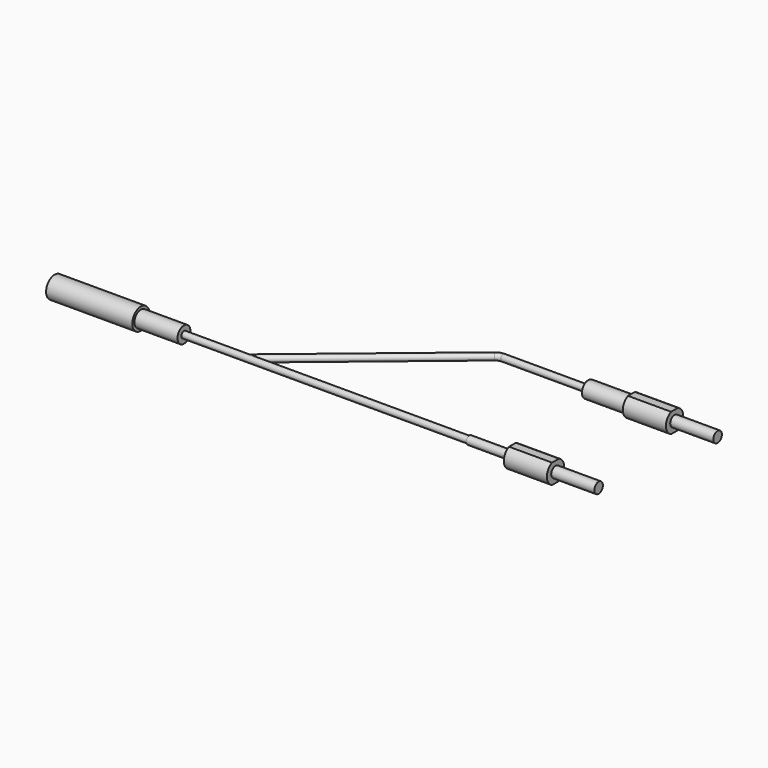
from build123d import *

# Parameters (mm, degrees)
F3_R     = 1.905
F7_W     = 78.89875
F7_H     = 0.5301288674
F8_DEPTH = 171.451


with BuildPart() as f1:
    # F0 (on Top) → F1 (revolve)
    with BuildSketch(Plane.XY):
        Polygon((-46.0375, 0), (-160.3375, 0), (-160.3375, -6.35), (-109.5375, -6.35), (-109.5375, -4.7625), (-84.1375, -4.7625), (-84.1375, -1.905), (84.1375, -1.905), (84.1375, -2.38125), (109.5375, -2.38125), (109.5375, -6.35), (134.9375, -6.35), (134.9375, -3.175), (160.3375, -3.175), (160.3375, 0), align=None)
    revolve(axis=Axis((40.7620462889, 0, 0), (1, 0, 0)))

    # F4: sweep along a path in F0
    with BuildLine(Plane.XY) as f4_path:
        Line((171.45, 73.81875), (45.1552021657, 73.81875))
        ThreePointArc((45.1552021657, 73.81875), (42.9987538677, 73.4413734385), (41.0986183394, 72.3540982639))
        Line((41.0986183394, 72.3540982639), (-46.0375, 0))
    # F3 (on plane+point) → F4 (sweep)
    with BuildSketch(Plane.YZ.offset(171.45)):
        with Locations((73.81875, 0)):
            Circle(F3_R)
    sweep(path=f4_path.line)

    # F5 (on Top) → F6 (revolve)
    with BuildSketch(Plane.XY):
        Polygon((95.25, 73.81875), (171.45, 73.81875), (171.45, 76.99375), (146.05, 76.99375), (146.05, 80.16875), (120.65, 80.16875), (120.65, 78.58125), (95.25, 78.58125), align=None)
    revolve(axis=Axis((128.362800926, 73.81875, 0), (1, 0, 0)))

    # F7 (on Right) → F8 (cut, through all)
    with BuildSketch(Plane.YZ):
        with Locations((36.909375, 6.0849355663)):
            Rectangle(F7_W, F7_H)
        with Locations((36.909375, -6.0849355663)):
            Rectangle(F7_W, F7_H)
    extrude(amount=F8_DEPTH, mode=Mode.SUBTRACT)


solid = f1.part
